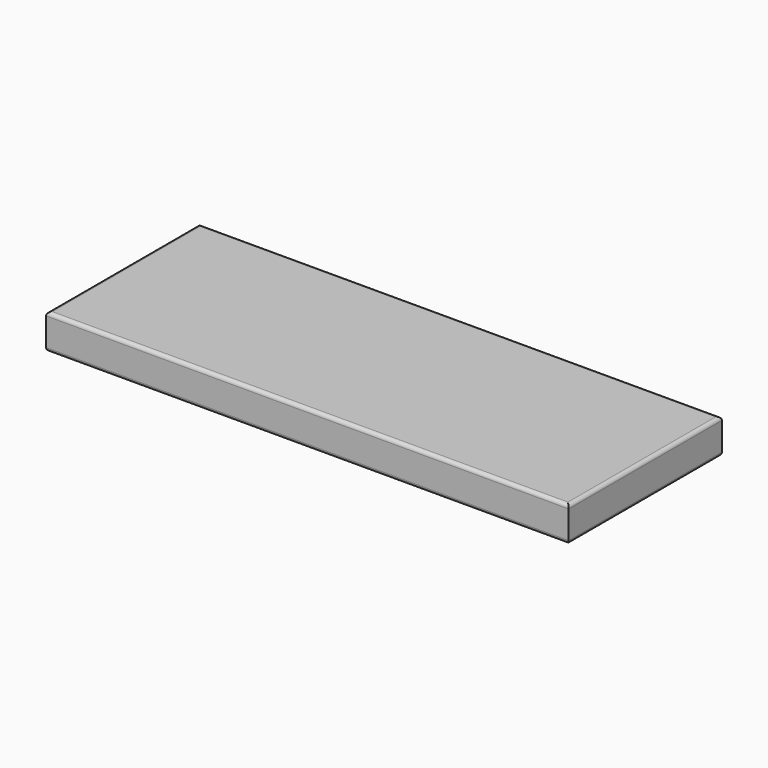
from build123d import *

# Parameters (mm, degrees)
SKETCH001_W = 300
SKETCH001_H = 110
PAD_DEPTH   = 20
FILLET_R    = 2
FILLET001_R = 2


with BuildPart() as part:
    # Sketch001 → Pad (new body)
    with BuildSketch(Plane.XY):
        Rectangle(SKETCH001_W, SKETCH001_H)
    extrude(amount=PAD_DEPTH)

    # Fillet
    fillet_edges = [part.edges().sort_by_distance(p)[0] for p in [
        (0, 55, 20),
        (150, 0, 20),
        (0, -55, 20),
        (-150, 0, 20),
    ]]
    fillet(fillet_edges, radius=FILLET_R)

    # Fillet001
    fillet001_edges = [part.edges().sort_by_distance(p)[0] for p in [
        (0, 55, 0),
        (150, 0, 0),
        (0, -55, 0),
        (-150, 0, 0),
    ]]
    fillet(fillet001_edges, radius=FILLET001_R)


solid = part.part
